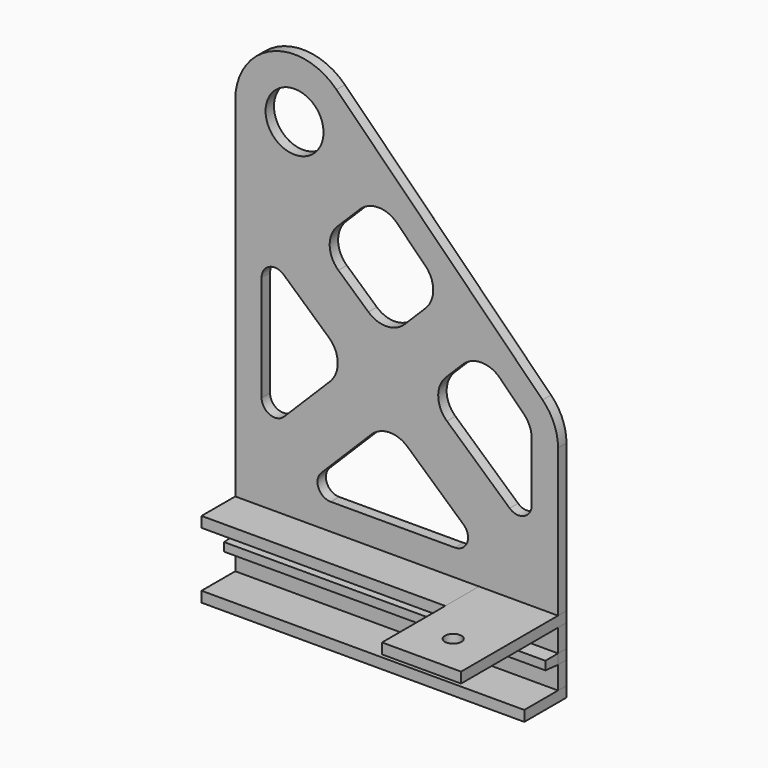
from build123d import *

# Parameters (mm, degrees)
F1_DEPTH  = 4
F0_W      = 122.5
F0_H      = 8.6
F0_W_2    = 92.5
F0_H_2    = 4
F2_DEPTH  = 20
F0_W_3    = 30
F3_DEPTH  = 50
F0_H_3    = 3.8
F4_DEPTH  = 4
F5_R      = 3.15
F6_DEPTH  = 40
F4_FACE_W = 122.5
F4_FACE_H = 3.8
F7_DEPTH  = 5.6
F7_TAPER  = 3


with BuildPart() as f1:
    # F0 (on Front) → F1 (new body)
    with BuildSketch(Plane.XZ):
        with BuildLine():
            Line((0, 110), (0, 0))
            Line((0, 0), (92.5, 0))
            Line((92.5, 0), (122.5, 0))
            Line((122.5, 0), (122.5, 56.0355339059))
            ThreePointArc((122.5, 56.0355339059), (120.9775906502, 63.6892025532), (116.6421356237, 70.1776695297))
            Line((116.6421356237, 70.1776695297), (93.4099025767, 93.4099025767))
            Line((93.4099025767, 93.4099025767), (54.3198051534, 132.5))
            Line((54.3198051534, 132.5), (38.4099025767, 148.4099025767))
            ThreePointArc((38.4099025767, 148.4099025767), (13.8896227718, 153.2872894815), (0, 132.5))
            Line((0, 132.5), (0, 110))
        make_face()
        with BuildLine():
            ThreePointArc((35.5732162015, 64.6167222252), (38.8883564947, 57.4447614751), (35.9630302772, 50.105167298))
            Line((35.9630302772, 50.105167298), (18.5355348938, 32.6776719147))
            ThreePointArc((18.5355348938, 32.6776719147), (13.0865838261, 31.593808158), (10.0000009879, 36.2132058206))
            Line((10.0000009879, 36.2132058206), (10.0000009879, 76.3706396309))
            ThreePointArc((10.0000009879, 76.3706396309), (12.9632307923, 80.9369912566), (18.340627856, 80.0908831885))
            Line((18.340627856, 80.0908831885), (35.5732162015, 64.6167222252))
        make_face(mode=Mode.SUBTRACT)
        with BuildLine():
            ThreePointArc((51.6258270811, 37.4836914573), (58.4283685277, 40.4090176749), (65.3781486291, 37.8531107608))
            Line((65.3781486291, 37.8531107608), (86.6852052871, 18.7202435576))
            ThreePointArc((86.6852052871, 18.7202435576), (88.013690636, 13.2113158172), (83.3445784191, 10))
            Line((83.3445784191, 10), (36.2132034356, 10))
            ThreePointArc((36.2132034356, 10), (31.593805773, 13.0865828382), (32.6776695297, 18.5355339059))
            Line((32.6776695297, 18.5355339059), (51.6258270811, 37.4836914573))
        make_face(mode=Mode.SUBTRACT)
        with BuildLine():
            Line((112.5000011414, 56.0355339059), (112.5000011414, 33.6293555954))
            ThreePointArc((112.5000011414, 33.6293555954), (109.536771337, 29.0630039696), (104.1593742733, 29.9091120378))
            Line((104.1593742733, 29.9091120378), (80.3407591987, 51.2972561863))
            ThreePointArc((80.3407591987, 51.2972561863), (77.0256189055, 58.4692169364), (79.9509451231, 65.8088111135))
            Line((79.9509451231, 65.8088111135), (86.3388347648, 72.1967007552))
            ThreePointArc((86.3388347648, 72.1967007552), (93.4099025767, 75.1256329434), (100.4809703886, 72.1967007552))
            Line((100.4809703886, 72.1967007552), (109.5710686189, 63.1066025249))
            ThreePointArc((109.5710686189, 63.1066025249), (111.7387963796, 59.8623686664), (112.5000011414, 56.0355339059))
        make_face(mode=Mode.SUBTRACT)
        with BuildLine():
            Line((72.1966986753, 86.3388347648), (64.2881514014, 78.4302874909))
            ThreePointArc((64.2881514014, 78.4302874909), (57.4856099548, 75.5049612734), (50.5358298533, 78.0608681875))
            Line((50.5358298533, 78.0608681875), (39.1490457718, 88.285735526))
            ThreePointArc((39.1490457718, 88.285735526), (35.8339054785, 95.457696276), (38.7592316961, 102.7972904532))
            Line((38.7592316961, 102.7972904532), (47.2487373415, 111.2867960986))
            ThreePointArc((47.2487373415, 111.2867960986), (54.3198051534, 114.2157282867), (61.3908729653, 111.2867960986))
            Line((61.3908729653, 111.2867960986), (72.1966986753, 100.4809703886))
            ThreePointArc((72.1966986753, 100.4809703886), (75.1256308634, 93.4099025767), (72.1966986753, 86.3388347648))
        make_face(mode=Mode.SUBTRACT)
        with BuildLine():
            ThreePointArc((33.5, 132.5), (22.5, 121.5), (11.5, 132.5))
            ThreePointArc((11.5, 132.5), (22.5, 143.5), (33.5, 132.5))
        make_face(mode=Mode.SUBTRACT)
    extrude(amount=F1_DEPTH)


with BuildPart() as f1b:
    # F0 (on Front) → F1, piece 2 (new body)
    with BuildSketch(Plane.XZ):
        Polygon((92.5, -4), (0, -4), (0, -12.6), (122.5, -12.6), (122.5, -4), align=None)
    extrude(amount=F1_DEPTH)


with BuildPart() as f1c:
    # F0 (on Front) → F1, piece 3 (new body)
    with BuildSketch(Plane.XZ):
        with Locations((61.25, -20.7)):
            Rectangle(F0_W, F0_H)
    extrude(amount=F1_DEPTH)


with BuildPart() as f2:
    # F0 (on Front) → F2 (new body)
    with BuildSketch(Plane.XZ):
        with Locations((46.25, -2)):
            Rectangle(F0_W_2, F0_H_2)
    extrude(amount=F2_DEPTH)


with BuildPart() as f2b:
    # F0 (on Front) → F2, piece 2 (new body)
    with BuildSketch(Plane.XZ):
        with Locations((61.25, -27)):
            Rectangle(F0_W, F0_H_2)
    extrude(amount=F2_DEPTH)


with BuildPart() as f3:
    # F0 (on Front) → F3 (new body)
    with BuildSketch(Plane.XZ):
        with Locations((107.5, -2)):
            Rectangle(F0_W_3, F0_H_2)
    extrude(amount=F3_DEPTH)

    # F5 (on face) → F6 (cut)
    with BuildSketch(Plane.XY):
        with Locations((107.5, -35)):
            Circle(F5_R)
    extrude(amount=-F6_DEPTH, mode=Mode.SUBTRACT)


with BuildPart() as f4:
    # F0 (on Front) → F4 (new body)
    with BuildSketch(Plane.XZ):
        with Locations((61.25, -14.5)):
            Rectangle(F0_W, F0_H_3)
    extrude(amount=F4_DEPTH)

    # F4_face (on face) → F7 (join)
    with BuildSketch(Plane(origin=(61.25, -4, -14.5), x_dir=(1, 0, 0), z_dir=(0, -1, 0))):
        Rectangle(F4_FACE_W, F4_FACE_H)
    extrude(amount=F7_DEPTH, taper=F7_TAPER)


solid = Compound([f1.part, f1b.part, f1c.part, f2.part, f2b.part, f3.part, f4.part])
